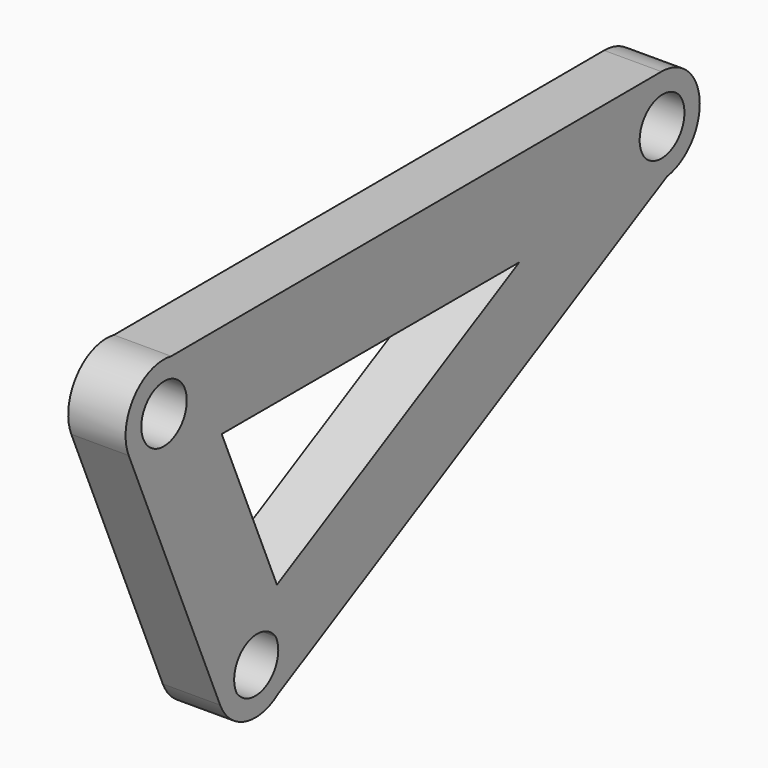
from build123d import *

# Parameters (mm, degrees)
SKETCH006_R      = 3
EXTRUDE004_DEPTH = 6
SKETCH004_R      = 3
EXTRUDE003_DEPTH = 6
SKETCH005_R      = 3
EXTRUDE005_DEPTH = 6


with BuildPart() as der:
    # Sketch006 → Extrude004 (new body)
    with BuildSketch(Plane(origin=(0, 0, 0), x_dir=(0, -1, 0), z_dir=(-1, 0, 0))):
        with BuildLine():
            ThreePointArc((-10.803604, 3.701349), (-16.887759, 1.835055), (-15.021464, -4.2491))
            Line((-15.021464, -4.2491), (37.981534, -32.368171))
            ThreePointArc((37.981534, -32.368171), (44.065689, -30.501877), (42.199395, -24.417722))
            Line((-10.803604, 3.701349), (42.199395, -24.417722))
        make_face()
        with Locations((-12.912534, -0.273875)):
            Circle(SKETCH006_R, mode=Mode.SUBTRACT)
        with Locations((40.090464, -28.392947)):
            Circle(SKETCH006_R, mode=Mode.SUBTRACT)
    extrude(amount=EXTRUDE004_DEPTH)


with BuildPart() as arriba:
    # Sketch004 → Extrude003 (new body)
    with BuildSketch(Plane(origin=(0, 0, 0), x_dir=(0, -1, 0), z_dir=(-1, 0, 0))):
        with BuildLine():
            ThreePointArc((-12.757495, 4.884875), (-17.769398, -0.109168), (-12.769395, -5.115125))
            Line((-12.769395, -5.115125), (52.23079, -5.115125))
            ThreePointArc((52.23079, -5.115125), (57.153448, -0.19832), (52.242505, 4.730186))
            Line((-12.757495, 4.884875), (52.242505, 4.730186))
        make_face()
        with Locations((-12.769395, -0.115118)):
            Circle(SKETCH004_R, mode=Mode.SUBTRACT)
        with Locations((52.23079, -0.192462)):
            Circle(SKETCH004_R, mode=Mode.SUBTRACT)
    extrude(amount=EXTRUDE003_DEPTH)


with BuildPart() as obj1:
    # Sketch005 → Extrude005 (new body)
    with BuildSketch(Plane(origin=(0, 0, 0), x_dir=(0, -1, 0), z_dir=(-1, 0, 0))):
        with BuildLine():
            ThreePointArc((56.876804, -2.145211), (54.255545, 4.422056), (47.688278, 1.800797))
            Line((47.688278, 1.800797), (35.731876, -26.04044))
            ThreePointArc((35.731876, -26.04044), (38.353136, -32.607707), (44.920403, -29.986447))
            Line((56.876804, -2.145211), (44.920403, -29.986447))
        make_face()
        with Locations((40.326139, -28.013444)):
            Circle(SKETCH005_R, mode=Mode.SUBTRACT)
        with Locations((52.282541, -0.172207)):
            Circle(SKETCH005_R, mode=Mode.SUBTRACT)
    extrude(amount=EXTRUDE005_DEPTH)

    # Fusion018: union Der, arriba
    add(der.part)
    add(arriba.part)


with BuildPart() as obj1_1:
    # Fusion018 placement: moved
    add(obj1.part.moved(Location((54, 57.6, 173.85))))


solid = obj1_1.part
